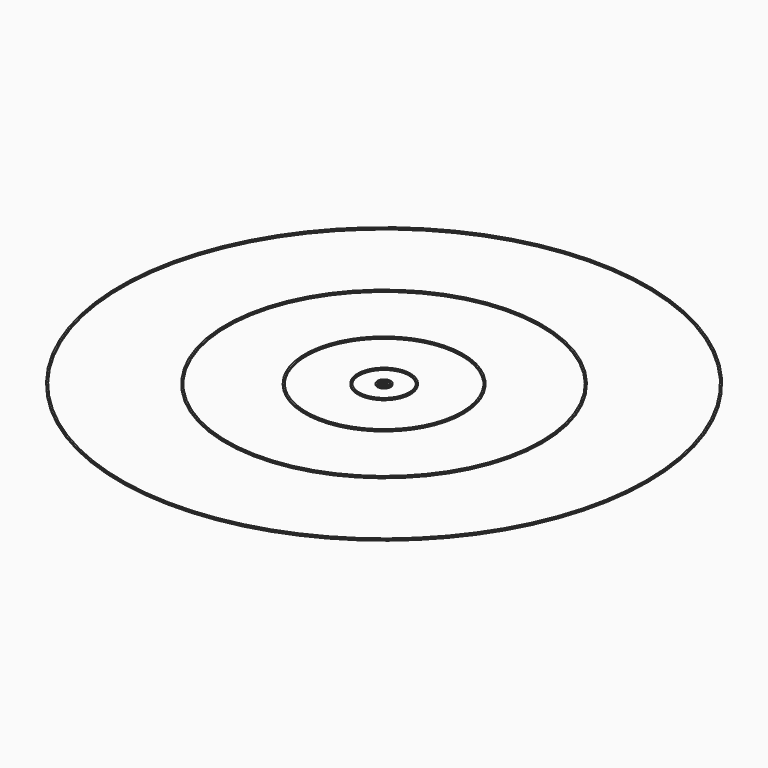
from build123d import *

# Parameters (mm, degrees)
F0_R     = 30
F0_R_2   = 29.7
F1_DEPTH = 0.25
F0_R_3   = 15
F0_R_4   = 14.7
F0_R_5   = 5
F0_R_6   = 4.7
F0_R_7   = 1.25
F0_R_8   = 0.95
F0_R_9   = 0.5
F0_R_10  = 0.2
F0_R_11  = 50
F0_R_12  = 49.7


with BuildPart() as f1:
    # F0 (on Top) → F1 (new body)
    with BuildSketch(Plane.XY):
        Circle(F0_R)
        Circle(F0_R_2, mode=Mode.SUBTRACT)
    extrude(amount=F1_DEPTH)


with BuildPart() as f1b:
    # F0 (on Top) → F1, piece 2 (new body)
    with BuildSketch(Plane.XY):
        Circle(F0_R_3)
        Circle(F0_R_4, mode=Mode.SUBTRACT)
    extrude(amount=F1_DEPTH)


with BuildPart() as f1c:
    # F0 (on Top) → F1, piece 3 (new body)
    with BuildSketch(Plane.XY):
        Circle(F0_R_5)
        Circle(F0_R_6, mode=Mode.SUBTRACT)
    extrude(amount=F1_DEPTH)


with BuildPart() as f1d:
    # F0 (on Top) → F1, piece 4 (new body)
    with BuildSketch(Plane.XY):
        Circle(F0_R_7)
        Circle(F0_R_8, mode=Mode.SUBTRACT)
    extrude(amount=F1_DEPTH)


with BuildPart() as f1e:
    # F0 (on Top) → F1, piece 5 (new body)
    with BuildSketch(Plane.XY):
        Circle(F0_R_9)
        Circle(F0_R_10, mode=Mode.SUBTRACT)
    extrude(amount=F1_DEPTH)


with BuildPart() as f1f:
    # F0 (on Top) → F1, piece 6 (new body)
    with BuildSketch(Plane.XY):
        Circle(F0_R_11)
        Circle(F0_R_12, mode=Mode.SUBTRACT)
    extrude(amount=F1_DEPTH)


solid = Compound([f1.part, f1b.part, f1c.part, f1d.part, f1e.part, f1f.part])
